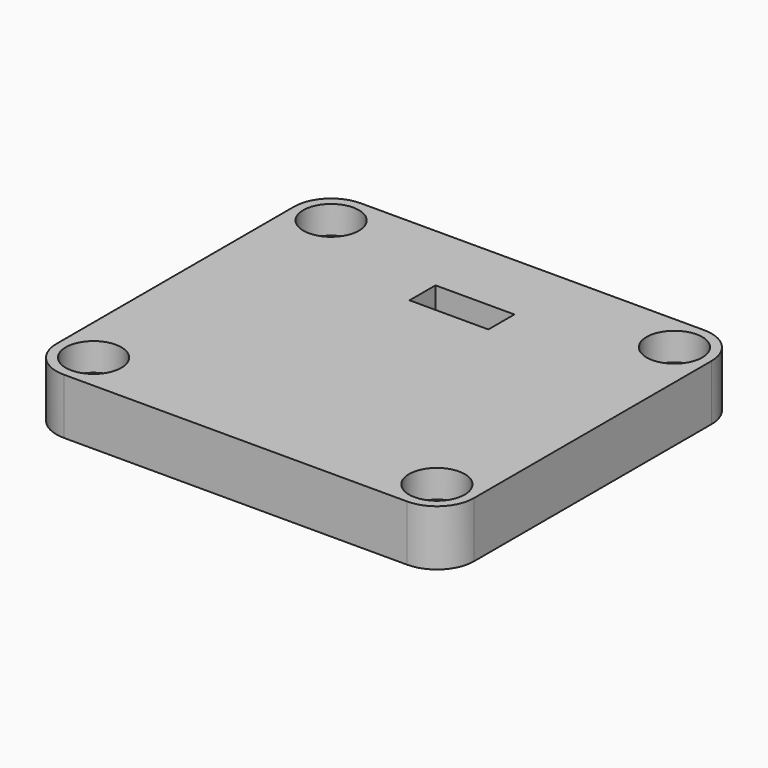
from build123d import *

# Parameters (mm, degrees)
F0_R     = 3
F1_DEPTH = 6
F0_R_2   = 1.5
F2_DEPTH = 3


with BuildPart() as f1:
    # F0 (on Top) → F1 (new body)
    with BuildSketch(Plane.XY):
        with BuildLine():
            ThreePointArc((-20.607047, 18.447905), (-23.435474, 17.276332), (-24.607047, 14.447905))
            Line((-24.607047, 14.447905), (-24.607047, -17.552095))
            ThreePointArc((-24.607047, -17.552095), (-23.435474, -20.380522), (-20.607047, -21.552095))
            Line((-20.607047, -21.552095), (16.392953, -21.552095))
            ThreePointArc((16.392953, -21.552095), (19.22138, -20.380522), (20.392953, -17.552095))
            Line((20.392953, -17.552095), (20.392953, 14.447905))
            ThreePointArc((20.392953, 14.447905), (19.22138, 17.276332), (16.392953, 18.447905))
            Line((16.392953, 18.447905), (-20.607047, 18.447905))
        make_face()
        with Locations((-20.607047, -17.552095)):
            Circle(F0_R, mode=Mode.SUBTRACT)
        with Locations((16.392953, -17.552095)):
            Circle(F0_R, mode=Mode.SUBTRACT)
        Polygon((-14.357047, -13.802095), (-14.357047, 10.697905), (-6.357047, 10.697905), (2.142953, 10.697905), (10.142953, 10.697905), (10.142953, -13.802095), align=None, mode=Mode.SUBTRACT)
        with Locations((-20.607047, 14.447905)):
            Circle(F0_R, mode=Mode.SUBTRACT)
        with Locations((16.392953, 14.447905)):
            Circle(F0_R, mode=Mode.SUBTRACT)
        Polygon((-6.357047, 10.697905), (-14.357047, 10.697905), (-14.357047, -13.802095), (10.142953, -13.802095), (10.142953, 10.697905), (2.142953, 10.697905), (2.142953, 7.197905), (-6.357047, 7.197905), align=None)
    extrude(amount=F1_DEPTH)

    # F0 (on Top) → F2 (join)
    with BuildSketch(Plane.XY):
        with Locations((-20.607047, 14.447905)):
            Circle(F0_R)
        with Locations((-20.607047, 14.447905)):
            Circle(F0_R_2, mode=Mode.SUBTRACT)
        with Locations((16.392953, 14.447905)):
            Circle(F0_R)
        with Locations((16.392953, 14.447905)):
            Circle(F0_R_2, mode=Mode.SUBTRACT)
        with Locations((16.392953, -17.552095)):
            Circle(F0_R)
        with Locations((16.392953, -17.552095)):
            Circle(F0_R_2, mode=Mode.SUBTRACT)
        with Locations((-20.607047, -17.552095)):
            Circle(F0_R)
        with Locations((-20.607047, -17.552095)):
            Circle(F0_R_2, mode=Mode.SUBTRACT)
    extrude(amount=F2_DEPTH)


solid = f1.part
